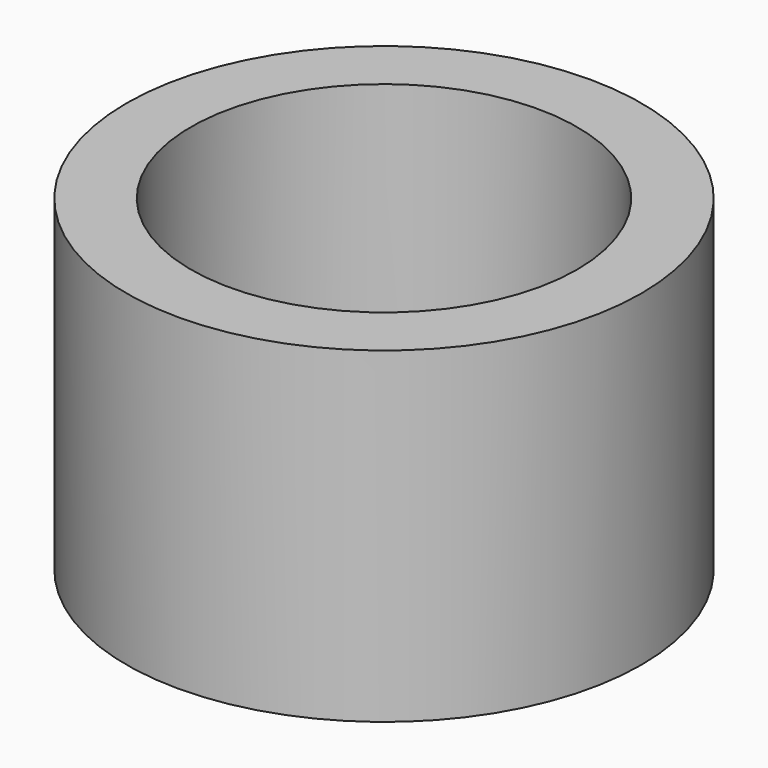
from build123d import *

# Parameters (mm, degrees)
SKETCH_R      = 10
SKETCH_R_2    = 2.05
PAD_DEPTH     = 1
SKETCH001_R   = 10
SKETCH001_R_2 = 7.5
PAD001_DEPTH  = 11.7


with BuildPart() as part:
    # Sketch → Pad (new body)
    with BuildSketch(Plane.XY):
        Circle(SKETCH_R)
        Circle(SKETCH_R_2, mode=Mode.SUBTRACT)
    extrude(amount=PAD_DEPTH)

    # Sketch001 (on Face4 of Pad) → Pad001 (join)
    with BuildSketch(Plane.XY.offset(1)):
        Circle(SKETCH001_R)
        Circle(SKETCH001_R_2, mode=Mode.SUBTRACT)
    extrude(amount=PAD001_DEPTH)


solid = part.part
